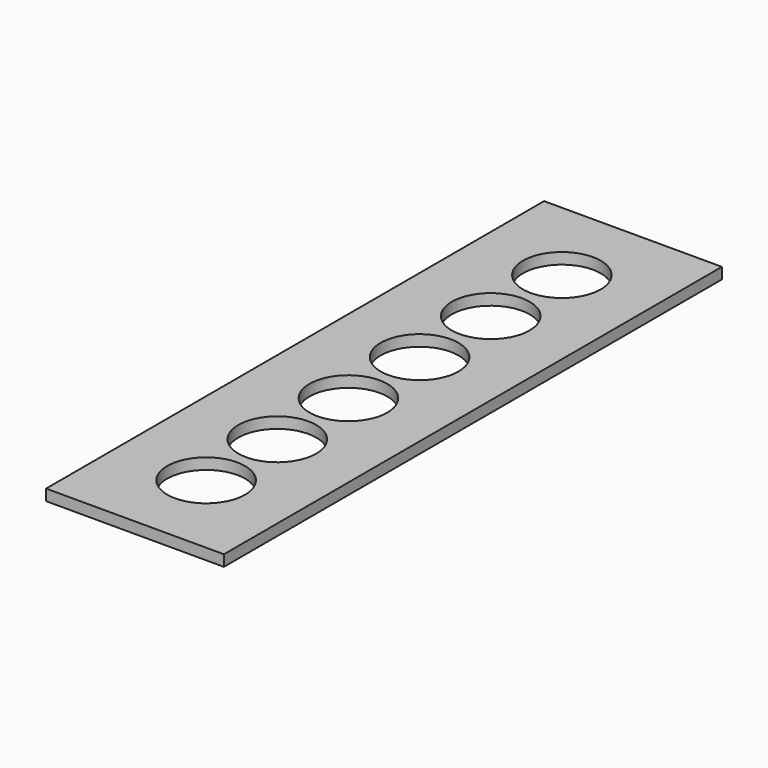
from build123d import *

# Parameters (mm, degrees)
F0_W     = 101.6
F0_H     = 355.6
F0_R     = 22.225
F1_DEPTH = 6.35


with BuildPart() as f1:
    # F0 (on Top) → F1 (new body)
    with BuildSketch(Plane.XY):
        Rectangle(F0_W, F0_H)
        with Locations((0, -127)):
            Circle(F0_R, mode=Mode.SUBTRACT)
        with Locations((0, -76.2)):
            Circle(F0_R, mode=Mode.SUBTRACT)
        with Locations((0, -25.4)):
            Circle(F0_R, mode=Mode.SUBTRACT)
        with Locations((0, 25.4)):
            Circle(F0_R, mode=Mode.SUBTRACT)
        with Locations((0, 76.2)):
            Circle(F0_R, mode=Mode.SUBTRACT)
        with Locations((0, 127)):
            Circle(F0_R, mode=Mode.SUBTRACT)
    extrude(amount=F1_DEPTH)


solid = f1.part
